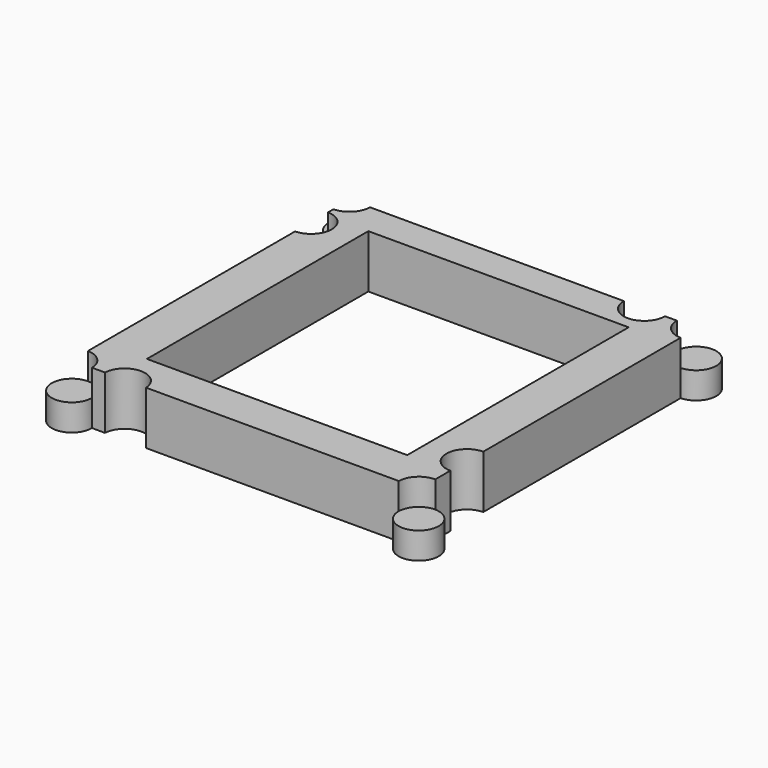
from build123d import *

# Parameters (mm, degrees)
F0_W     = 130.696968
F0_H     = 130.696968
F1_DEPTH = 20
F3_DEPTH = 20
F4_W     = 97.922124
F4_H     = 104.10668
F5_DEPTH = 25
F6_R     = 7.559223
F6_R_2   = 7.71768
F7_DEPTH = 10


with BuildPart() as f1:
    # F0 (on Top) → F1 (new body)
    with BuildSketch(Plane.XY):
        Rectangle(F0_W, F0_H)
    extrude(amount=F1_DEPTH)

    # F2 (on Top) → F3 (cut)
    with BuildSketch(Plane.XY):
        with BuildLine():
            Line((65.463071, -65.384018), (65.463071, -73.302153))
            ThreePointArc((65.463071, -73.302153), (70.877053, -70.99904), (73.111326, -65.556288))
            ThreePointArc((73.111326, -65.556288), (65.450978, -57.810279), (57.620266, -65.384018))
            Line((57.620266, -65.384018), (65.463071, -65.384018))
        make_face()
        with BuildLine():
            ThreePointArc((65.266604, -73.302153), (65.364838, -73.302776), (65.463071, -73.302153))
            Line((65.463071, -73.302153), (65.266604, -73.302153))
        make_face()
        with BuildLine():
            Line((-43.278281, -73.302153), (65.266604, -73.302153))
            ThreePointArc((65.266604, -73.302153), (59.79244, -70.937409), (57.620266, -65.384018))
            Line((57.620266, -65.384018), (-37.424044, -65.384018))
            ThreePointArc((-37.424044, -65.384018), (-37.416151, -65.585784), (-37.413519, -65.787688))
            ThreePointArc((-37.413519, -65.787688), (-39.053255, -70.553782), (-43.278281, -73.302153))
        make_face()
        with BuildLine():
            ThreePointArc((-47.041733, -73.302153), (-45.160007, -73.534176), (-43.278281, -73.302153))
            Line((-43.278281, -73.302153), (-47.041733, -73.302153))
        make_face()
        with BuildLine():
            Line((-52.89597, -65.384018), (-37.424044, -65.384018))
            ThreePointArc((-37.424044, -65.384018), (-45.160007, -58.0412), (-52.89597, -65.384018))
        make_face()
        with BuildLine():
            Line((-52.89597, -73.302153), (-47.041733, -73.302153))
            ThreePointArc((-47.041733, -73.302153), (-51.140461, -70.711329), (-52.89597, -66.191358))
            Line((-52.89597, -66.191358), (-52.89597, -73.302153))
        make_face()
        with BuildLine():
            Line((-52.89597, -66.191358), (-52.89597, -65.384018))
            ThreePointArc((-52.89597, -65.384018), (-52.906495, -65.787688), (-52.89597, -66.191358))
        make_face()
        with BuildLine():
            ThreePointArc((-73.248961, -65.359679), (-65.60328, -73.302152), (-57.75848, -65.556288))
            ThreePointArc((-57.75848, -65.556288), (-60.027374, -60.078694), (-65.504968, -57.8098))
            Line((-65.504968, -57.8098), (-65.504968, -65.365049))
            Line((-65.504968, -65.365049), (-73.248961, -65.365049))
            Line((-73.248961, -65.365049), (-73.248961, -65.359679))
        make_face()
        with BuildLine():
            ThreePointArc((-73.248961, -65.359679), (-70.912604, -60.009617), (-65.504968, -57.8098))
            Line((-65.504968, -57.8098), (-65.504968, 39.620381))
            ThreePointArc((-65.504968, 39.620381), (-70.912604, 41.820198), (-73.248961, 47.17026))
            Line((-73.248961, 47.17026), (-73.248961, -65.359679))
        make_face()
        with BuildLine():
            Line((-65.504968, 54.955278), (-65.504968, 39.620381))
            ThreePointArc((-65.504968, 39.620381), (-60.027374, 41.889275), (-57.75848, 47.366869))
            ThreePointArc((-57.75848, 47.366869), (-60.608689, 53.369745), (-67.061929, 54.955278))
            Line((-67.061929, 54.955278), (-65.504968, 54.955278))
        make_face()
        with BuildLine():
            ThreePointArc((-73.248961, 47.563477), (-73.251456, 47.366869), (-73.248961, 47.17026))
            Line((-73.248961, 47.17026), (-73.248961, 47.563477))
        make_face()
        with BuildLine():
            Line((-73.248961, 54.955278), (-73.248961, 47.563477))
            ThreePointArc((-73.248961, 47.563477), (-71.445222, 52.338937), (-67.061929, 54.955278))
            Line((-67.061929, 54.955278), (-73.248961, 54.955278))
        make_face()
        with BuildLine():
            ThreePointArc((-64.895208, 73.134162), (-71.194062, 60.154116), (-57.75848, 65.411709))
            Line((-57.75848, 65.411709), (-65.504968, 65.411709))
            Line((-65.504968, 65.411709), (-65.504968, 73.134162))
            Line((-65.504968, 73.134162), (-64.895208, 73.134162))
        make_face()
        with BuildLine():
            ThreePointArc((-64.895208, 73.134162), (-59.815874, 70.669303), (-57.75848, 65.411709))
            Line((-57.75848, 65.411709), (37.749253, 65.411709))
            ThreePointArc((37.749253, 65.411709), (45.477167, 73.012411), (53.20508, 65.411709))
            Line((53.20508, 65.411709), (53.20508, 73.134162))
            Line((53.20508, 73.134162), (-64.895208, 73.134162))
        make_face()
        with BuildLine():
            Line((53.20508, 65.411709), (37.749253, 65.411709))
            ThreePointArc((37.749253, 65.411709), (45.413026, 57.554721), (53.206145, 65.283433))
            ThreePointArc((53.206145, 65.283433), (53.205879, 65.347573), (53.20508, 65.411709))
        make_face()
        with BuildLine():
            Line((73.154315, 65.283433), (73.170148, 65.283433))
            ThreePointArc((73.170148, 65.283433), (59.946066, 70.761027), (65.42366, 57.536945))
            Line((65.42366, 57.536945), (65.42366, 65.283433))
            Line((65.42366, 65.283433), (73.154315, 65.283433))
        make_face()
        with BuildLine():
            Line((73.265217, 65.283433), (73.170148, 65.283433))
            ThreePointArc((73.170148, 65.283433), (70.901254, 59.805838), (65.42366, 57.536945))
            Line((65.42366, 57.536945), (65.42366, -35.264168))
            ThreePointArc((65.42366, -35.264168), (70.901254, -37.533062), (73.170148, -43.010656))
            ThreePointArc((73.170148, -43.010656), (71.089749, -48.293033), (65.965977, -50.738137))
            Line((65.965977, -50.738137), (73.265217, -50.738137))
            Line((73.265217, -50.738137), (73.265217, 65.283433))
        make_face()
        with BuildLine():
            Line((65.42366, -50.738137), (65.42366, -35.264168))
            ThreePointArc((65.42366, -35.264168), (57.681925, -43.281981), (65.965977, -50.738137))
            Line((65.965977, -50.738137), (65.42366, -50.738137))
        make_face()
    extrude(amount=F3_DEPTH, mode=Mode.SUBTRACT)

    # F4 (on Top) → F5 (cut)
    with BuildSketch(Plane.XY):
        with Locations((0.309229, 1.133837)):
            Rectangle(F4_W, F4_H)
    extrude(amount=F5_DEPTH, mode=Mode.SUBTRACT)

    # F6 (on Top) → F7 (join)
    with BuildSketch(Plane.XY):
        with Locations((-65.319784, -65.393053)):
            Circle(F6_R)
        with Locations((65.150194, -65.393053)):
            Circle(F6_R)
        with Locations((-65.368432, 65.110195)):
            Circle(F6_R_2)
        with Locations((65.150194, 65.110195)):
            Circle(F6_R)
    extrude(amount=F7_DEPTH)


solid = f1.part
